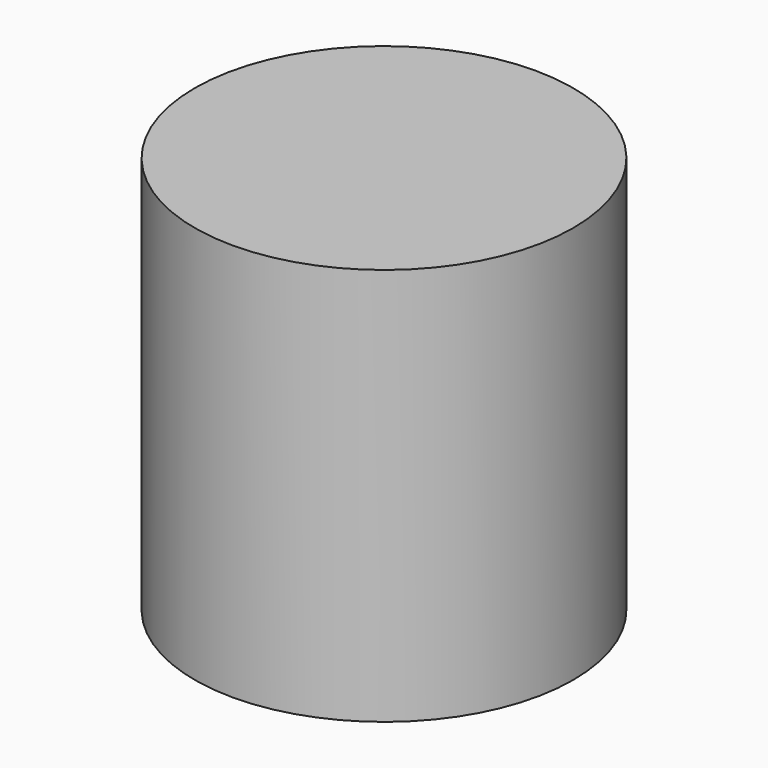
from build123d import *

# Parameters (mm, degrees)
CYLINDER_R     = 7.1374
CYLINDER_DEPTH = 15


with BuildPart() as part:
    # Cylinder → Cylinder (new body)
    with BuildSketch(Plane.XY.offset(-2.5)):
        Circle(CYLINDER_R)
    extrude(amount=CYLINDER_DEPTH)


solid = part.part
